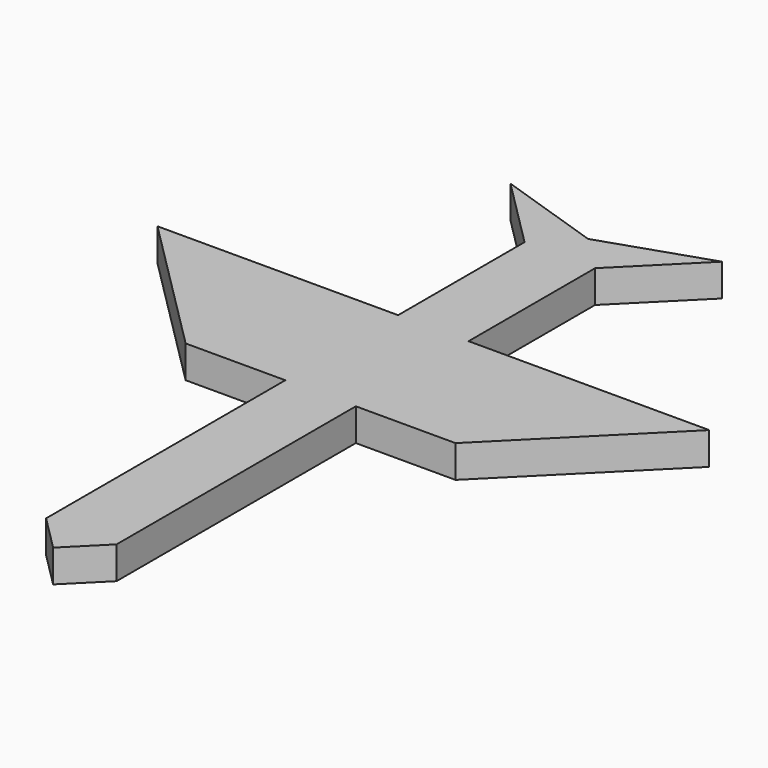
from build123d import *

# Parameters (mm, degrees)
F1_DEPTH = 8.255


with BuildPart() as f1:
    # F0 (on Top) → F1 (new body)
    with BuildSketch(Plane.XY):
        Polygon((-8.980256, 8.980256), (0, 0), (8.980256, 8.980256), (8.980256, 85.180256), (8.980256, 121.101281), (8.980256, 161.380256), (-8.980256, 161.380256), (-8.980256, 121.101281), (-8.980256, 85.180256), align=None)
        Polygon((8.980256, 121.101281), (8.980256, 85.180256), (34.380256, 85.180256), (70.301281, 121.101281), align=None)
        Polygon((-34.380256, 85.180256), (-8.980256, 85.180256), (-8.980256, 121.101281), (-70.301281, 121.101281), align=None)
        Polygon((-8.980256, 161.380256), (8.980256, 161.380256), (26.940768, 179.340768), (0, 170.360512), (-26.940768, 179.340768), align=None)
    extrude(amount=F1_DEPTH)


solid = f1.part
